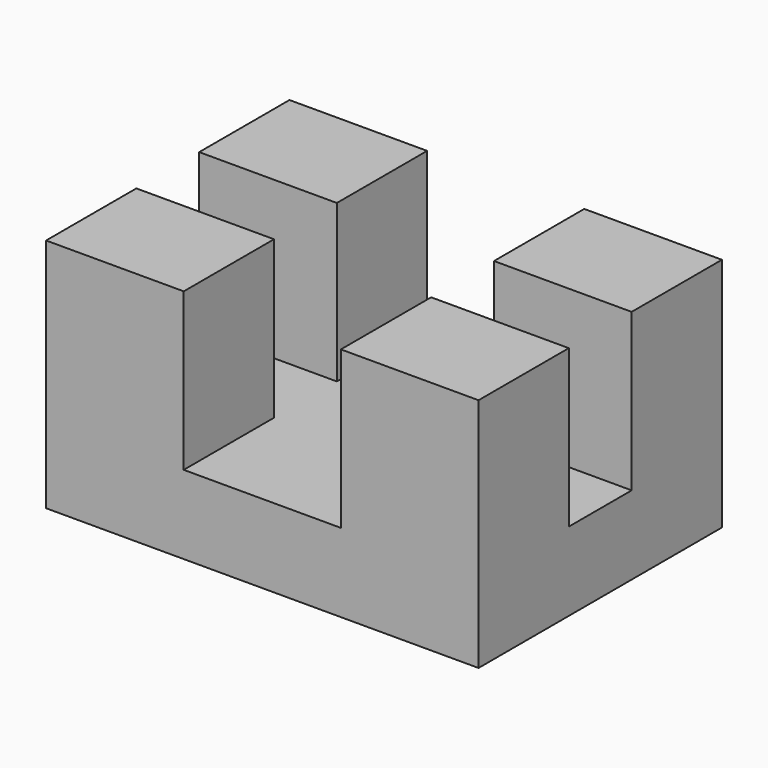
from build123d import *

# Parameters (mm, degrees)
F0_W     = 17.4752
F0_H     = 12.2936
F1_DEPTH = 9.525
F2_W     = 6.35
F2_H     = 12.2936
F3_DEPTH = 6.35
F4_W     = 17.4752
F4_H     = 3.175
F5_DEPTH = 6.35
F6_W     = 9.525
F6_H     = 6.35
F7_DEPTH = 1.6002


with BuildPart() as f1:
    # F0 (on Top) → F1 (new body)
    with BuildSketch(Plane.XY):
        Rectangle(F0_W, F0_H)
    extrude(amount=F1_DEPTH)

    # F2 (on face) → F3 (cut)
    with BuildSketch(Plane.XY.offset(9.525)):
        Rectangle(F2_W, F2_H)
    extrude(amount=-F3_DEPTH, mode=Mode.SUBTRACT)

    # F4 (on face) → F5 (cut)
    with BuildSketch(Plane.XY.offset(9.525)):
        Rectangle(F4_W, F4_H)
        Rectangle(F4_W, F4_H)
    extrude(amount=-F5_DEPTH, mode=Mode.SUBTRACT)

    # F6 (on face) → F7 (cut)
    with BuildSketch(Plane(origin=(0, 0, 0), x_dir=(1, 0, 0), z_dir=(0, 0, -1))):
        Rectangle(F6_W, F6_H)
    extrude(amount=-F7_DEPTH, mode=Mode.SUBTRACT)


solid = f1.part
